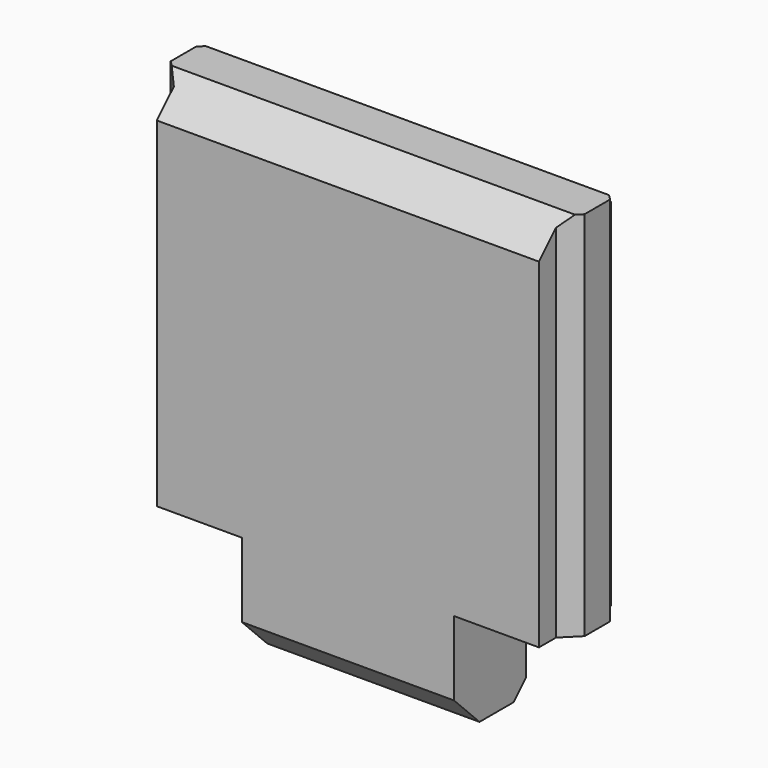
from build123d import *

# Parameters (mm, degrees)
PAD005_DEPTH         = 4.5
SKETCH_W             = 1
SKETCH_H             = 1
POCKET_DEPTH         = 0.501
POCKET_DEPTH_BACK    = -0.501
SKETCH009_R          = 6
POCKET001_DEPTH      = 1.951
POCKET001_DEPTH_BACK = -1.951


with BuildPart() as part:
    # Sketch008 → Pad005 (new body)
    with BuildSketch(Plane.XY):
        Polygon((-1.8, -0.5), (-1.8, -0.3), (-1.95, -0.15), (-1.95, 0.15), (-1.8, 0.3), (-1.8, 0.35), (-1, 0.35), (-0.85, 0.5), (-0.55, 0.5), (-0.4, 0.35), (0.4, 0.35), (0.55, 0.5), (0.85, 0.5), (1, 0.35), (1.8, 0.35), (1.8, 0.3), (1.95, 0.15), (1.95, -0.15), (1.8, -0.3), (1.8, -0.5), align=None)
    extrude(amount=PAD005_DEPTH)

    # Sketch → Pocket (cut, two sides)
    with BuildSketch(Plane.XZ) as pocket_sk:
        with Locations((-1.5, 0.5)):
            Rectangle(SKETCH_W, SKETCH_H)
        with Locations((1.5, 0.5)):
            Rectangle(SKETCH_W, SKETCH_H)
    extrude(amount=-POCKET_DEPTH, mode=Mode.SUBTRACT)
    extrude(pocket_sk.sketch, amount=-POCKET_DEPTH_BACK, mode=Mode.SUBTRACT)

    # Sketch009 → Pocket001 (cut, two sides)
    with BuildSketch(Plane.YZ) as pocket001_sk:
        Circle(SKETCH009_R)
        Polygon((-0.5, 4.2), (-0.5, 0.3), (-0.2, 0), (0.2, 0), (0.5, 0.3), (0.5, 4.2), (0.2, 4.5), (-0.2, 4.5), align=None, mode=Mode.SUBTRACT)
    extrude(amount=-POCKET001_DEPTH, mode=Mode.SUBTRACT)
    extrude(pocket001_sk.sketch, amount=-POCKET001_DEPTH_BACK, mode=Mode.SUBTRACT)


solid = part.part
